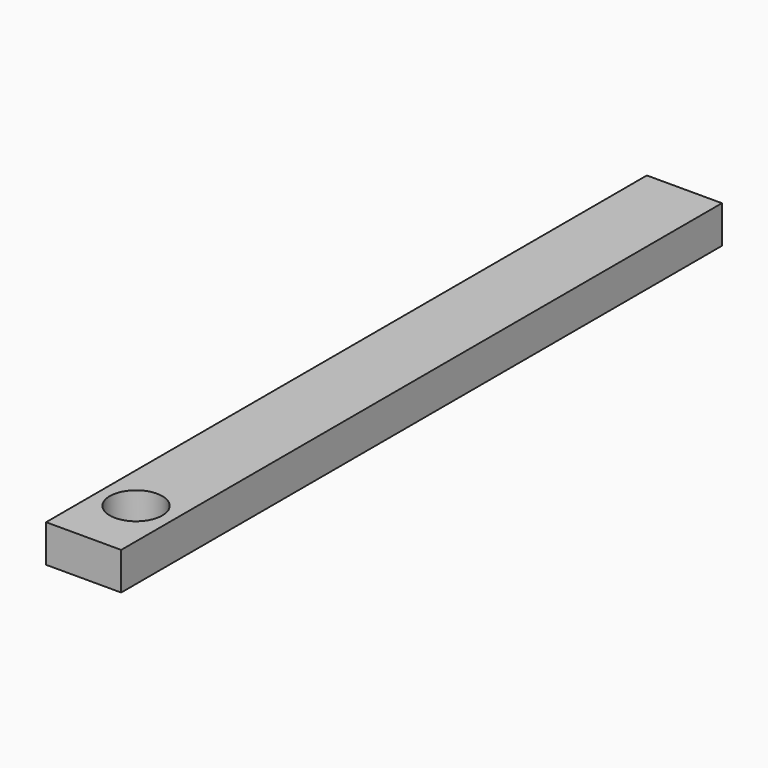
from build123d import *

# Parameters (mm, degrees)
F0_W     = 5
F0_H     = 2.5
F1_DEPTH = 50
F2_R     = 1.75
F3_DEPTH = 25


with BuildPart() as f1:
    # F0 (on Front) → F1 (new body)
    with BuildSketch(Plane.XZ):
        with Locations((2.5, -1.25)):
            Rectangle(F0_W, F0_H)
    extrude(amount=F1_DEPTH)

    # F2 (on face) → F3 (cut)
    with BuildSketch(Plane.XY):
        with Locations((2.5, -45.636852)):
            Circle(F2_R)
    extrude(amount=-F3_DEPTH, mode=Mode.SUBTRACT)


solid = f1.part
